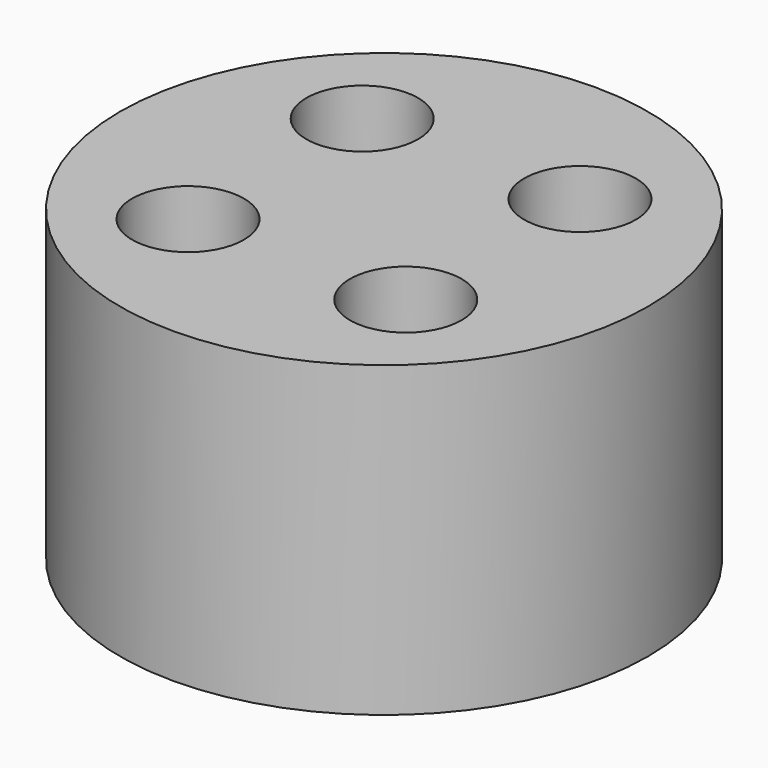
from build123d import *

# Parameters (mm, degrees)
F0_R     = 15.24
F2_DEPTH = 8.89
F1_R     = 3.2258
F3_DEPTH = 8.89


with BuildPart() as f2:
    # F0 (on Top) → F2 (new body, symmetric)
    with BuildSketch(Plane.XY):
        Circle(F0_R)
    extrude(amount=F2_DEPTH, both=True)

    # F1 (on face) → F3 (cut, symmetric)
    with BuildSketch(Plane.XY):
        with Locations((6.286179, 6.286179)):
            Circle(F1_R)
        with Locations((-6.286179, 6.286179)):
            Circle(F1_R)
        with Locations((6.286179, -6.286179)):
            Circle(F1_R)
        with Locations((-6.286179, -6.286179)):
            Circle(F1_R)
    extrude(amount=F3_DEPTH, both=True, mode=Mode.SUBTRACT)


solid = f2.part
